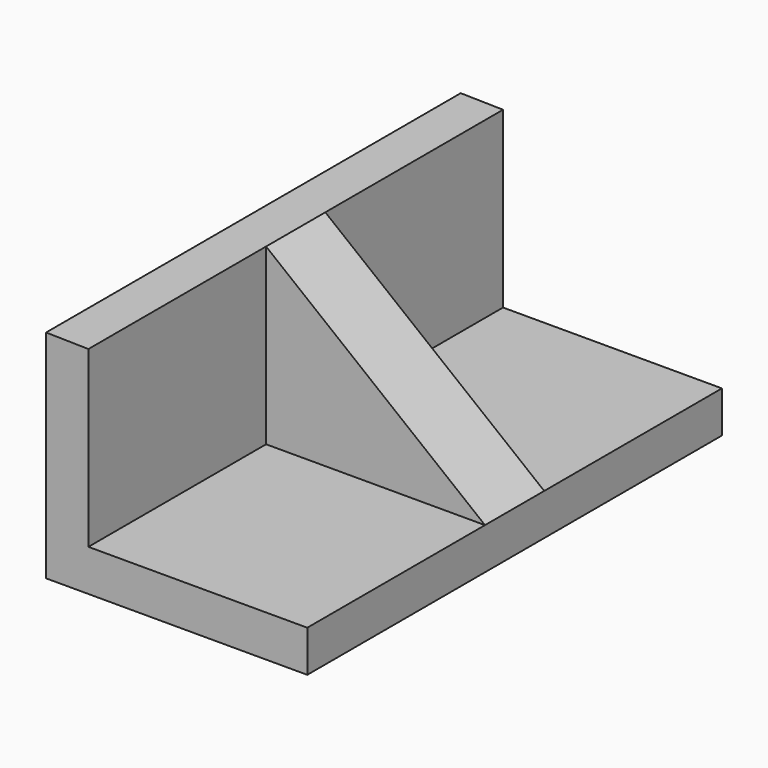
from build123d import *

# Parameters (mm, degrees)
F1_DEPTH = 88.9
F2_DEPTH = 12.7


with BuildPart() as f1:
    # F0 (on Front) → F1 (new body, symmetric)
    with BuildSketch(Plane.XZ):
        Polygon((-27.076663, 37.124645), (-41.591987, 37.403788), (-41.591987, -36.847681), (48.012231, -36.847681), (48.012231, -22.611499), (-27.076663, -22.611499), align=None)
    extrude(amount=F1_DEPTH, both=True)

    # F0 (on Front) → F2 (join, symmetric)
    with BuildSketch(Plane.XZ):
        Polygon((-27.076663, 37.124645), (-41.591987, 37.403788), (-41.591987, -36.847681), (48.012231, -36.847681), (48.012231, -22.611499), (-27.076663, -22.611499), align=None)
        Polygon((48.012231, -22.611499), (-27.076663, 37.124645), (-27.076663, -22.611499), align=None)
    extrude(amount=F2_DEPTH, both=True)


solid = f1.part
